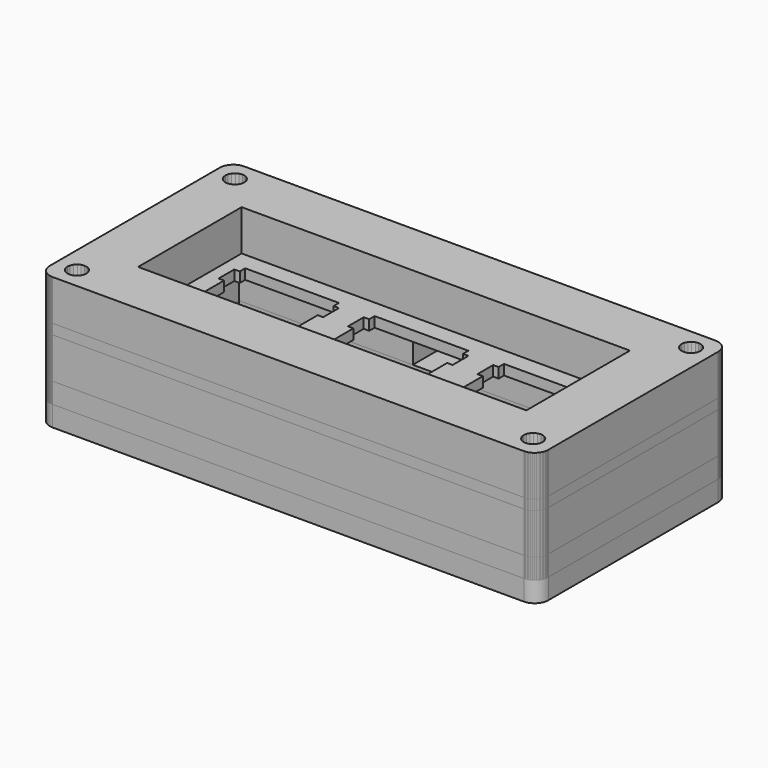
from build123d import *

# Parameters (mm, degrees)
F1_R      = 1.5
F2_DEPTH  = 3
F3_W      = 60.9491
F3_H      = 22.85069
F4_DEPTH  = 3
F6_DEPTH  = 6
F8_DEPTH  = 1.5
F9_W      = 57.15117
F9_H      = 19.05135
F10_DEPTH = 6


with BuildPart() as f2:
    # F1 (on Top) → F2 (new body)
    with BuildSketch(Plane.XY):
        with BuildLine():
            Line((36.675402, -15.6255355), (36.675402, 15.6255355))
            ThreePointArc((36.675402, 15.6255355), (36.0896155624, 17.0397490624), (34.675402, 17.6255355))
            Line((34.675402, 17.6255355), (-34.675402, 17.6255355))
            ThreePointArc((-34.675402, 17.6255355), (-36.0896155624, 17.0397490624), (-36.675402, 15.6255355))
            Line((-36.675402, 15.6255355), (-36.675402, -15.6255355))
            ThreePointArc((-36.675402, -15.6255355), (-36.0896155624, -17.0397490624), (-34.675402, -17.6255355))
            Line((-34.675402, -17.6255355), (34.675402, -17.6255355))
            ThreePointArc((34.675402, -17.6255355), (36.0896155624, -17.0397490624), (36.675402, -15.6255355))
        make_face()
        with Locations((-33.575402, -14.5255355)):
            Circle(F1_R, mode=Mode.SUBTRACT)
        with Locations((-27.175402, -8.1255355)):
            Circle(F1_R, mode=Mode.SUBTRACT)
        with Locations((33.575402, -14.5255355)):
            Circle(F1_R, mode=Mode.SUBTRACT)
        with Locations((27.175402, -8.1255355)):
            Circle(F1_R, mode=Mode.SUBTRACT)
        with Locations((-27.175402, 8.1255355)):
            Circle(F1_R, mode=Mode.SUBTRACT)
        with Locations((-33.575402, 14.5255355)):
            Circle(F1_R, mode=Mode.SUBTRACT)
        with Locations((27.175402, 8.1255355)):
            Circle(F1_R, mode=Mode.SUBTRACT)
        with Locations((33.575402, 14.5255355)):
            Circle(F1_R, mode=Mode.SUBTRACT)
    extrude(amount=F2_DEPTH)


with BuildPart() as f4:
    # F3 (on face) → F4 (new body)
    with BuildSketch(Plane.XY.offset(3)):
        Polygon((34.832047, 17.618786), (34.675147, 17.624486), (-34.674833, 17.625886), (-34.831933, 17.618786), (-34.987653, 17.600886), (-35.141993, 17.569086), (-35.293573, 17.527886), (-35.441023, 17.472786), (-35.582963, 17.407986), (-35.719393, 17.330786), (-35.850301, 17.243986), (-35.974324, 17.146186), (-36.090081, 17.039986), (-36.196189, 16.924286), (-36.294029, 16.800286), (-36.380847, 16.669386), (-36.458016, 16.532886), (-36.522784, 16.390986), (-36.577906, 16.243486), (-36.619247, 16.091986), (-36.650942, 15.937586), (-36.668856, 15.781886), (-36.674368, 15.624786), (-36.675746, -15.624974), (-36.668856, -15.782074), (-36.650942, -15.937784), (-36.619247, -16.092124), (-36.577906, -16.243714), (-36.522784, -16.391164), (-36.458016, -16.533104), (-36.380847, -16.670904), (-36.294029, -16.801817), (-36.196189, -16.924464), (-36.090081, -17.040217), (-35.974324, -17.146329), (-35.850301, -17.244169), (-35.719393, -17.330984), (-35.582963, -17.408155), (-35.441023, -17.472923), (-35.293573, -17.528045), (-35.141993, -17.570764), (-34.987653, -17.601081), (-34.831933, -17.618995), (-34.674833, -17.625885), (34.676147, -17.625885), (34.832047, -17.618995), (34.987647, -17.601081), (35.142147, -17.570764), (35.293547, -17.528045), (35.440947, -17.472923), (35.583147, -17.408155), (35.720747, -17.330984), (35.851647, -17.244169), (35.974347, -17.146329), (36.090047, -17.040217), (36.196247, -16.924464), (36.294047, -16.801817), (36.380747, -16.670904), (36.458047, -16.533104), (36.522947, -16.391164), (36.577947, -16.243714), (36.620647, -16.092124), (36.651047, -15.937784), (36.669047, -15.782074), (36.675747, -15.626354), (36.675747, 15.624786), (36.669047, 15.781886), (36.651047, 15.937586), (36.620647, 16.091986), (36.577947, 16.243486), (36.522947, 16.390986), (36.458047, 16.532886), (36.380747, 16.669386), (36.294047, 16.800286), (36.196247, 16.924286), (36.090047, 17.039986), (35.974347, 17.146186), (35.851647, 17.243986), (35.720747, 17.330786), (35.583147, 17.407986), (35.440947, 17.472786), (35.293547, 17.527886), (35.142147, 17.569086), (34.987647, 17.600886), align=None)
        Polygon((-34.397843, -13.393934), (-34.007863, -13.194124), (-33.575163, -13.126604), (-33.142443, -13.194124), (-32.752483, -13.393934), (-32.442423, -13.703994), (-32.243983, -14.093984), (-32.175083, -14.526674), (-32.243983, -14.958004), (-32.442423, -15.347984), (-32.752483, -15.658044), (-33.142443, -15.857864), (-33.575163, -15.926764), (-34.007863, -15.857864), (-34.397843, -15.658044), (-34.707903, -15.347984), (-34.906343, -14.958004), (-34.975243, -14.526674), (-34.906343, -14.093984), (-34.707903, -13.703994), align=None, mode=Mode.SUBTRACT)
        with Locations((-3e-06, -0.000759)):
            Rectangle(F3_W, F3_H, mode=Mode.SUBTRACT)
        Polygon((32.753847, -13.393934), (33.144047, -13.194124), (33.575147, -13.126604), (34.008047, -13.194124), (34.397847, -13.393934), (34.707947, -13.703994), (34.907947, -14.093984), (34.976747, -14.526674), (34.907947, -14.958004), (34.707947, -15.347984), (34.397847, -15.658044), (34.008047, -15.857864), (33.575147, -15.926764), (33.144047, -15.857864), (32.753847, -15.658044), (32.443747, -15.347984), (32.244147, -14.958004), (32.175347, -14.526674), (32.244147, -14.093984), (32.443747, -13.703994), align=None, mode=Mode.SUBTRACT)
        Polygon((-34.397843, 15.657886), (-34.007863, 15.856286), (-33.575163, 15.925186), (-33.142443, 15.856286), (-32.752483, 15.657886), (-32.442423, 15.347786), (-32.243983, 14.957786), (-32.175083, 14.525086), (-32.243983, 14.092386), (-32.442423, 13.702386), (-32.752483, 13.392386), (-33.142443, 13.193986), (-33.575163, 13.125086), (-34.007863, 13.193986), (-34.397843, 13.392386), (-34.707903, 13.702386), (-34.906343, 14.092386), (-34.975243, 14.525086), (-34.906343, 14.957786), (-34.707903, 15.347786), align=None, mode=Mode.SUBTRACT)
        Polygon((32.753847, 15.657886), (33.144047, 15.856286), (33.575147, 15.925186), (34.008047, 15.856286), (34.397847, 15.657886), (34.707947, 15.347786), (34.907947, 14.957786), (34.976747, 14.525086), (34.907947, 14.092386), (34.707947, 13.702386), (34.397847, 13.392386), (34.008047, 13.193986), (33.575147, 13.125086), (33.144047, 13.193986), (32.753847, 13.392386), (32.443747, 13.702386), (32.244147, 14.092386), (32.175347, 14.525086), (32.244147, 14.957786), (32.443747, 15.347786), align=None, mode=Mode.SUBTRACT)
    extrude(amount=F4_DEPTH)


with BuildPart() as f6:
    # F5 (on face) → F6 (new body)
    with BuildSketch(Plane.XY.offset(6)):
        Polygon((-4.899553, 11.424586), (-4.899553, 17.625886), (-34.674833, 17.625886), (-34.831933, 17.618786), (-34.987653, 17.600886), (-35.141993, 17.569086), (-35.293573, 17.527886), (-35.441023, 17.472786), (-35.582963, 17.407986), (-35.719393, 17.330786), (-35.850301, 17.243986), (-35.974324, 17.146186), (-36.090081, 17.039986), (-36.196189, 16.924286), (-36.294029, 16.800286), (-36.380847, 16.669386), (-36.458016, 16.532886), (-36.522784, 16.390986), (-36.577906, 16.243486), (-36.619247, 16.091986), (-36.650942, 15.937586), (-36.668856, 15.781886), (-36.674368, 15.624786), (-36.675746, -15.624974), (-36.668856, -15.782074), (-36.650942, -15.937784), (-36.619247, -16.092124), (-36.577906, -16.243714), (-36.522784, -16.391164), (-36.458016, -16.533104), (-36.380847, -16.670904), (-36.294029, -16.801817), (-36.196189, -16.924464), (-36.090081, -17.040217), (-35.974324, -17.146329), (-35.850301, -17.244169), (-35.719393, -17.330984), (-35.582963, -17.408155), (-35.441023, -17.472923), (-35.293573, -17.528045), (-35.141993, -17.570764), (-34.987653, -17.601081), (-34.831933, -17.618995), (-34.674833, -17.625885), (34.676147, -17.625885), (34.832047, -17.618995), (34.987647, -17.601081), (35.142147, -17.570764), (35.293547, -17.528045), (35.440947, -17.472923), (35.583147, -17.408155), (35.720747, -17.330984), (35.851647, -17.244169), (35.974347, -17.146329), (36.090047, -17.040217), (36.196247, -16.924464), (36.294047, -16.801817), (36.380747, -16.670904), (36.458047, -16.533104), (36.522947, -16.391164), (36.577947, -16.243714), (36.620647, -16.092124), (36.651047, -15.937784), (36.669047, -15.782074), (36.675747, -15.626354), (36.675747, 15.624786), (36.669047, 15.781886), (36.651047, 15.937586), (36.620647, 16.091986), (36.577947, 16.243486), (36.522947, 16.390986), (36.458047, 16.532886), (36.380747, 16.669386), (36.294047, 16.800286), (36.196247, 16.924286), (36.090047, 17.039986), (35.974347, 17.146186), (35.851647, 17.243986), (35.720747, 17.330786), (35.583147, 17.407986), (35.440947, 17.472786), (35.293547, 17.527886), (35.142147, 17.569086), (34.987647, 17.600886), (34.832047, 17.618786), (34.675147, 17.624486), (4.899647, 17.624486), (4.899647, 11.424586), (30.474547, 11.424586), (30.474547, -11.426104), (-30.474553, -11.426104), (-30.474553, 11.424586), align=None)
        Polygon((-34.397843, -13.393934), (-34.007863, -13.194124), (-33.575163, -13.126604), (-33.142443, -13.194124), (-32.752483, -13.393934), (-32.442423, -13.703994), (-32.243983, -14.093984), (-32.175083, -14.526674), (-32.243983, -14.958004), (-32.442423, -15.347984), (-32.752483, -15.658044), (-33.142443, -15.857864), (-33.575163, -15.926764), (-34.007863, -15.857864), (-34.397843, -15.658044), (-34.707903, -15.347984), (-34.906343, -14.958004), (-34.975243, -14.526674), (-34.906343, -14.093984), (-34.707903, -13.703994), align=None, mode=Mode.SUBTRACT)
        Polygon((32.753847, -13.393934), (33.144047, -13.194124), (33.575147, -13.126604), (34.008047, -13.194124), (34.397847, -13.393934), (34.707947, -13.703994), (34.907947, -14.093984), (34.976747, -14.526674), (34.907947, -14.958004), (34.707947, -15.347984), (34.397847, -15.658044), (34.008047, -15.857864), (33.575147, -15.926764), (33.144047, -15.857864), (32.753847, -15.658044), (32.443747, -15.347984), (32.244147, -14.958004), (32.175347, -14.526674), (32.244147, -14.093984), (32.443747, -13.703994), align=None, mode=Mode.SUBTRACT)
        Polygon((-34.397843, 15.657886), (-34.007863, 15.856286), (-33.575163, 15.925186), (-33.142443, 15.856286), (-32.752483, 15.657886), (-32.442423, 15.347786), (-32.243983, 14.957786), (-32.175083, 14.525086), (-32.243983, 14.092386), (-32.442423, 13.702386), (-32.752483, 13.392386), (-33.142443, 13.193986), (-33.575163, 13.125086), (-34.007863, 13.193986), (-34.397843, 13.392386), (-34.707903, 13.702386), (-34.906343, 14.092386), (-34.975243, 14.525086), (-34.906343, 14.957786), (-34.707903, 15.347786), align=None, mode=Mode.SUBTRACT)
        Polygon((32.753847, 15.657886), (33.144047, 15.856286), (33.575147, 15.925186), (34.008047, 15.856286), (34.397847, 15.657886), (34.707947, 15.347786), (34.907947, 14.957786), (34.976747, 14.525086), (34.907947, 14.092386), (34.707947, 13.702386), (34.397847, 13.392386), (34.008047, 13.193986), (33.575147, 13.125086), (33.144047, 13.193986), (32.753847, 13.392386), (32.443747, 13.702386), (32.244147, 14.092386), (32.175347, 14.525086), (32.244147, 14.957786), (32.443747, 15.347786), align=None, mode=Mode.SUBTRACT)
    extrude(amount=F6_DEPTH)


with BuildPart() as f8:
    # F7 (on face) → F8 (new body)
    with BuildSketch(Plane.XY.offset(12)):
        Polygon((34.832047, 17.618786), (34.675147, 17.624486), (-34.674833, 17.625886), (-34.831933, 17.618786), (-34.987653, 17.600886), (-35.141993, 17.569086), (-35.293573, 17.527886), (-35.441023, 17.472786), (-35.582963, 17.407986), (-35.719393, 17.330786), (-35.850301, 17.243986), (-35.974324, 17.146186), (-36.090081, 17.039986), (-36.196189, 16.924286), (-36.294029, 16.800286), (-36.380847, 16.669386), (-36.458016, 16.532886), (-36.522784, 16.390986), (-36.577906, 16.243486), (-36.619247, 16.091986), (-36.650942, 15.937586), (-36.668856, 15.781886), (-36.674368, 15.624786), (-36.675746, -15.624974), (-36.668856, -15.782074), (-36.650942, -15.937784), (-36.619247, -16.092124), (-36.577906, -16.243714), (-36.522784, -16.391164), (-36.458016, -16.533104), (-36.380847, -16.670904), (-36.294029, -16.801817), (-36.196189, -16.924464), (-36.090081, -17.040217), (-35.974324, -17.146329), (-35.850301, -17.244169), (-35.719393, -17.330984), (-35.582963, -17.408155), (-35.441023, -17.472923), (-35.293573, -17.528045), (-35.141993, -17.570764), (-34.987653, -17.601081), (-34.831933, -17.618995), (-34.674833, -17.625885), (34.676147, -17.625885), (34.832047, -17.618995), (34.987647, -17.601081), (35.142147, -17.570764), (35.293547, -17.528045), (35.440947, -17.472923), (35.583147, -17.408155), (35.720747, -17.330984), (35.851647, -17.244169), (35.974347, -17.146329), (36.090047, -17.040217), (36.196247, -16.924464), (36.294047, -16.801817), (36.380747, -16.670904), (36.458047, -16.533104), (36.522947, -16.391164), (36.577947, -16.243714), (36.620647, -16.092124), (36.651047, -15.937784), (36.669047, -15.782074), (36.675747, -15.626354), (36.675747, 15.624786), (36.669047, 15.781886), (36.651047, 15.937586), (36.620647, 16.091986), (36.577947, 16.243486), (36.522947, 16.390986), (36.458047, 16.532886), (36.380747, 16.669386), (36.294047, 16.800286), (36.196247, 16.924286), (36.090047, 17.039986), (35.974347, 17.146186), (35.851647, 17.243986), (35.720747, 17.330786), (35.583147, 17.407986), (35.440947, 17.472786), (35.293547, 17.527886), (35.142147, 17.569086), (34.987647, 17.600886), align=None)
        Polygon((-34.397843, -13.393934), (-34.007863, -13.194124), (-33.575163, -13.126604), (-33.142443, -13.194124), (-32.752483, -13.393934), (-32.442423, -13.703994), (-32.243983, -14.093984), (-32.175083, -14.526674), (-32.243983, -14.958004), (-32.442423, -15.347984), (-32.752483, -15.658044), (-33.142443, -15.857864), (-33.575163, -15.926764), (-34.007863, -15.857864), (-34.397843, -15.658044), (-34.707903, -15.347984), (-34.906343, -14.958004), (-34.975243, -14.526674), (-34.906343, -14.093984), (-34.707903, -13.703994), align=None, mode=Mode.SUBTRACT)
        Polygon((-25.949053, 5.899986), (-25.949053, 6.899086), (-12.149453, 6.899086), (-12.149453, 5.899986), (-11.350153, 5.899986), (-11.350153, 2.999186), (-12.149453, 2.999186), (-12.149453, -3.000714), (-11.350153, -3.000714), (-11.350153, -5.900114), (-12.149453, -5.900114), (-12.149453, -6.900614), (-25.949053, -6.900614), (-25.949053, -5.900114), (-26.749753, -5.900114), (-26.749753, -3.000714), (-25.949053, -3.000714), (-25.949053, 2.999186), (-26.749753, 2.999186), (-26.749753, 5.899986), align=None, mode=Mode.SUBTRACT)
        Polygon((-6.899053, 5.899986), (-6.899053, 6.899086), (6.899147, 6.899086), (6.899147, 5.899986), (7.699947, 5.899986), (7.699947, 2.999186), (6.899147, 2.999186), (6.899147, -3.000714), (7.699947, -3.000714), (7.699947, -5.900114), (6.899147, -5.900114), (6.899147, -6.900614), (-6.899053, -6.900614), (-6.899053, -5.900114), (-7.701153, -5.900114), (-7.701153, -3.000714), (-6.899053, -3.000714), (-6.899053, 2.999186), (-7.701153, 2.999186), (-7.701153, 5.899986), align=None, mode=Mode.SUBTRACT)
        Polygon((32.753847, -13.393934), (33.144047, -13.194124), (33.575147, -13.126604), (34.008047, -13.194124), (34.397847, -13.393934), (34.707947, -13.703994), (34.907947, -14.093984), (34.976747, -14.526674), (34.907947, -14.958004), (34.707947, -15.347984), (34.397847, -15.658044), (34.008047, -15.857864), (33.575147, -15.926764), (33.144047, -15.857864), (32.753847, -15.658044), (32.443747, -15.347984), (32.244147, -14.958004), (32.175347, -14.526674), (32.244147, -14.093984), (32.443747, -13.703994), align=None, mode=Mode.SUBTRACT)
        Polygon((12.149547, 5.899986), (12.149547, 6.899086), (25.950547, 6.899086), (25.950547, 5.899986), (26.749947, 5.899986), (26.749947, 2.999186), (25.950547, 2.999186), (25.950547, -3.000714), (26.749947, -3.000714), (26.749947, -5.900114), (25.950547, -5.900114), (25.950547, -6.900614), (12.149547, -6.900614), (12.149547, -5.900114), (11.348747, -5.900114), (11.348747, -3.000714), (12.149547, -3.000714), (12.149547, 2.999186), (11.348747, 2.999186), (11.348747, 5.899986), align=None, mode=Mode.SUBTRACT)
        Polygon((-34.397843, 15.657886), (-34.007863, 15.856286), (-33.575163, 15.925186), (-33.142443, 15.856286), (-32.752483, 15.657886), (-32.442423, 15.347786), (-32.243983, 14.957786), (-32.175083, 14.525086), (-32.243983, 14.092386), (-32.442423, 13.702386), (-32.752483, 13.392386), (-33.142443, 13.193986), (-33.575163, 13.125086), (-34.007863, 13.193986), (-34.397843, 13.392386), (-34.707903, 13.702386), (-34.906343, 14.092386), (-34.975243, 14.525086), (-34.906343, 14.957786), (-34.707903, 15.347786), align=None, mode=Mode.SUBTRACT)
        Polygon((32.753847, 15.657886), (33.144047, 15.856286), (33.575147, 15.925186), (34.008047, 15.856286), (34.397847, 15.657886), (34.707947, 15.347786), (34.907947, 14.957786), (34.976747, 14.525086), (34.907947, 14.092386), (34.707947, 13.702386), (34.397847, 13.392386), (34.008047, 13.193986), (33.575147, 13.125086), (33.144047, 13.193986), (32.753847, 13.392386), (32.443747, 13.702386), (32.244147, 14.092386), (32.175347, 14.525086), (32.244147, 14.957786), (32.443747, 15.347786), align=None, mode=Mode.SUBTRACT)
    extrude(amount=F8_DEPTH)


with BuildPart() as f10:
    # F9 (on face) → F10 (new body)
    with BuildSketch(Plane.XY.offset(13.5)):
        Polygon((34.832047, 17.618786), (34.675147, 17.624486), (-34.674833, 17.625886), (-34.831933, 17.618786), (-34.987653, 17.600886), (-35.141993, 17.569086), (-35.293573, 17.527886), (-35.441023, 17.472786), (-35.582963, 17.407986), (-35.719393, 17.330786), (-35.850301, 17.243986), (-35.974324, 17.146186), (-36.090081, 17.039986), (-36.196189, 16.924286), (-36.294029, 16.800286), (-36.380847, 16.669386), (-36.458016, 16.532886), (-36.522784, 16.390986), (-36.577906, 16.243486), (-36.619247, 16.091986), (-36.650942, 15.937586), (-36.668856, 15.781886), (-36.674368, 15.624786), (-36.675746, -15.624974), (-36.668856, -15.782074), (-36.650942, -15.937784), (-36.619247, -16.092124), (-36.577906, -16.243714), (-36.522784, -16.391164), (-36.458016, -16.533104), (-36.380847, -16.670904), (-36.294029, -16.801817), (-36.196189, -16.924464), (-36.090081, -17.040217), (-35.974324, -17.146329), (-35.850301, -17.244169), (-35.719393, -17.330984), (-35.582963, -17.408155), (-35.441023, -17.472923), (-35.293573, -17.528045), (-35.141993, -17.570764), (-34.987653, -17.601081), (-34.831933, -17.618995), (-34.674833, -17.625885), (34.676147, -17.625885), (34.832047, -17.618995), (34.987647, -17.601081), (35.142147, -17.570764), (35.293547, -17.528045), (35.440947, -17.472923), (35.583147, -17.408155), (35.720747, -17.330984), (35.851647, -17.244169), (35.974347, -17.146329), (36.090047, -17.040217), (36.196247, -16.924464), (36.294047, -16.801817), (36.380747, -16.670904), (36.458047, -16.533104), (36.522947, -16.391164), (36.577947, -16.243714), (36.620647, -16.092124), (36.651047, -15.937784), (36.669047, -15.782074), (36.675747, -15.626354), (36.675747, 15.624786), (36.669047, 15.781886), (36.651047, 15.937586), (36.620647, 16.091986), (36.577947, 16.243486), (36.522947, 16.390986), (36.458047, 16.532886), (36.380747, 16.669386), (36.294047, 16.800286), (36.196247, 16.924286), (36.090047, 17.039986), (35.974347, 17.146186), (35.851647, 17.243986), (35.720747, 17.330786), (35.583147, 17.407986), (35.440947, 17.472786), (35.293547, 17.527886), (35.142147, 17.569086), (34.987647, 17.600886), align=None)
        Polygon((-34.397843, -13.393934), (-34.007863, -13.194124), (-33.575163, -13.126604), (-33.142443, -13.194124), (-32.752483, -13.393934), (-32.442423, -13.703994), (-32.243983, -14.093984), (-32.175083, -14.526674), (-32.243983, -14.958004), (-32.442423, -15.347984), (-32.752483, -15.658044), (-33.142443, -15.857864), (-33.575163, -15.926764), (-34.007863, -15.857864), (-34.397843, -15.658044), (-34.707903, -15.347984), (-34.906343, -14.958004), (-34.975243, -14.526674), (-34.906343, -14.093984), (-34.707903, -13.703994), align=None, mode=Mode.SUBTRACT)
        with Locations((-3.8e-05, -8.9e-05)):
            Rectangle(F9_W, F9_H, mode=Mode.SUBTRACT)
        Polygon((32.753847, -13.393934), (33.144047, -13.194124), (33.575147, -13.126604), (34.008047, -13.194124), (34.397847, -13.393934), (34.707947, -13.703994), (34.907947, -14.093984), (34.976747, -14.526674), (34.907947, -14.958004), (34.707947, -15.347984), (34.397847, -15.658044), (34.008047, -15.857864), (33.575147, -15.926764), (33.144047, -15.857864), (32.753847, -15.658044), (32.443747, -15.347984), (32.244147, -14.958004), (32.175347, -14.526674), (32.244147, -14.093984), (32.443747, -13.703994), align=None, mode=Mode.SUBTRACT)
        Polygon((-34.397843, 15.657886), (-34.007863, 15.856286), (-33.575163, 15.925186), (-33.142443, 15.856286), (-32.752483, 15.657886), (-32.442423, 15.347786), (-32.243983, 14.957786), (-32.175083, 14.525086), (-32.243983, 14.092386), (-32.442423, 13.702386), (-32.752483, 13.392386), (-33.142443, 13.193986), (-33.575163, 13.125086), (-34.007863, 13.193986), (-34.397843, 13.392386), (-34.707903, 13.702386), (-34.906343, 14.092386), (-34.975243, 14.525086), (-34.906343, 14.957786), (-34.707903, 15.347786), align=None, mode=Mode.SUBTRACT)
        Polygon((32.753847, 15.657886), (33.144047, 15.856286), (33.575147, 15.925186), (34.008047, 15.856286), (34.397847, 15.657886), (34.707947, 15.347786), (34.907947, 14.957786), (34.976747, 14.525086), (34.907947, 14.092386), (34.707947, 13.702386), (34.397847, 13.392386), (34.008047, 13.193986), (33.575147, 13.125086), (33.144047, 13.193986), (32.753847, 13.392386), (32.443747, 13.702386), (32.244147, 14.092386), (32.175347, 14.525086), (32.244147, 14.957786), (32.443747, 15.347786), align=None, mode=Mode.SUBTRACT)
    extrude(amount=F10_DEPTH)


solid = Compound([f2.part, f4.part, f6.part, f8.part, f10.part])
